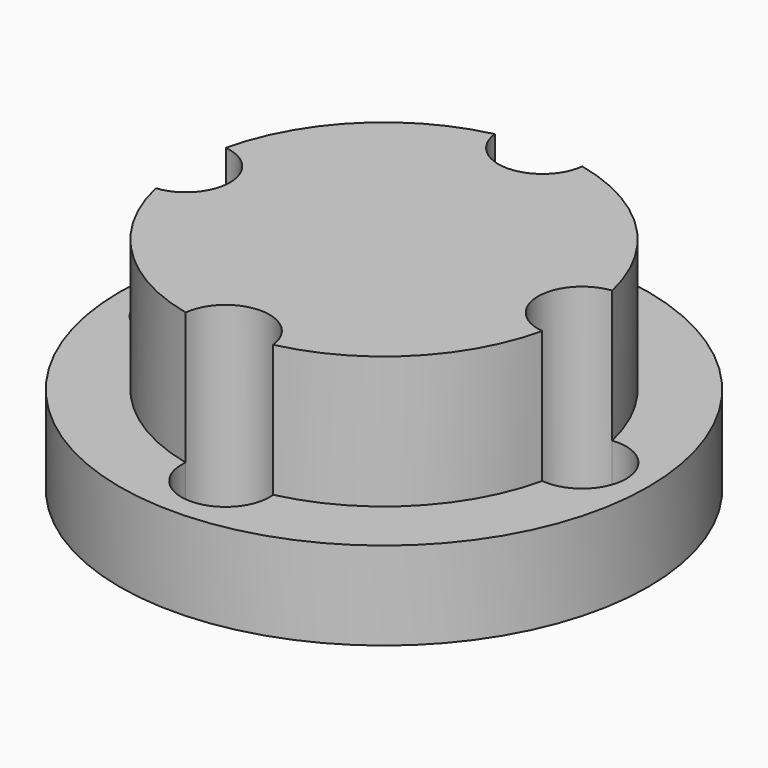
from build123d import *

# Parameters (mm, degrees)
F1_DEPTH = 25
F0_R     = 30
F2_DEPTH = 10


with BuildPart() as f1:
    # F0 (on Top) → F1 (new body)
    with BuildSketch(Plane.XY):
        with BuildLine():
            ThreePointArc((21.9444444444, -4.96903995), (17.5, 0), (21.9444444444, 4.96903995))
            ThreePointArc((21.9444444444, 4.96903995), (15.9099025767, 15.9099025767), (4.96903995, 21.9444444444))
            ThreePointArc((4.96903995, 21.9444444444), (0, 17.5), (-4.96903995, 21.9444444444))
            ThreePointArc((-4.96903995, 21.9444444444), (-15.9099025767, 15.9099025767), (-21.9444444444, 4.96903995))
            ThreePointArc((-21.9444444444, 4.96903995), (-18.7732200375, 3.3333333333), (-17.5, 0))
            ThreePointArc((-17.5, 0), (-18.7732200375, -3.3333333333), (-21.9444444444, -4.96903995))
            ThreePointArc((-21.9444444444, -4.96903995), (-15.9099025767, -15.9099025767), (-4.96903995, -21.9444444444))
            ThreePointArc((-4.96903995, -21.9444444444), (0, -17.5), (4.96903995, -21.9444444444))
            ThreePointArc((4.96903995, -21.9444444444), (15.9099025767, -15.9099025767), (21.9444444444, -4.96903995))
        make_face()
    extrude(amount=F1_DEPTH)

    # F0 (on Top) → F2 (join)
    with BuildSketch(Plane.XY):
        Circle(F0_R)
        with BuildLine():
            ThreePointArc((4.96903995, 21.9444444444), (15.9099025767, 15.9099025767), (21.9444444444, 4.96903995))
            ThreePointArc((21.9444444444, 4.96903995), (25.8333333333, 3.7267799625), (27.5, 0))
            ThreePointArc((27.5, 0), (25.8333333333, -3.7267799625), (21.9444444444, -4.96903995))
            ThreePointArc((21.9444444444, -4.96903995), (15.9099025767, -15.9099025767), (4.96903995, -21.9444444444))
            ThreePointArc((4.96903995, -21.9444444444), (4.9922539874, -22.2217912205), (5, -22.5))
            ThreePointArc((5, -22.5), (-0.2782087795, -27.4922539874), (-4.96903995, -21.9444444444))
            ThreePointArc((-4.96903995, -21.9444444444), (-15.9099025767, -15.9099025767), (-21.9444444444, -4.96903995))
            ThreePointArc((-21.9444444444, -4.96903995), (-27.5, 0), (-21.9444444444, 4.96903995))
            ThreePointArc((-21.9444444444, 4.96903995), (-15.9099025767, 15.9099025767), (-4.96903995, 21.9444444444))
            ThreePointArc((-4.96903995, 21.9444444444), (-0.2782087795, 27.4922539874), (5, 22.5))
            ThreePointArc((5, 22.5), (4.9922539874, 22.2217912205), (4.96903995, 21.9444444444))
        make_face(mode=Mode.SUBTRACT)
    extrude(amount=F2_DEPTH)


solid = f1.part
